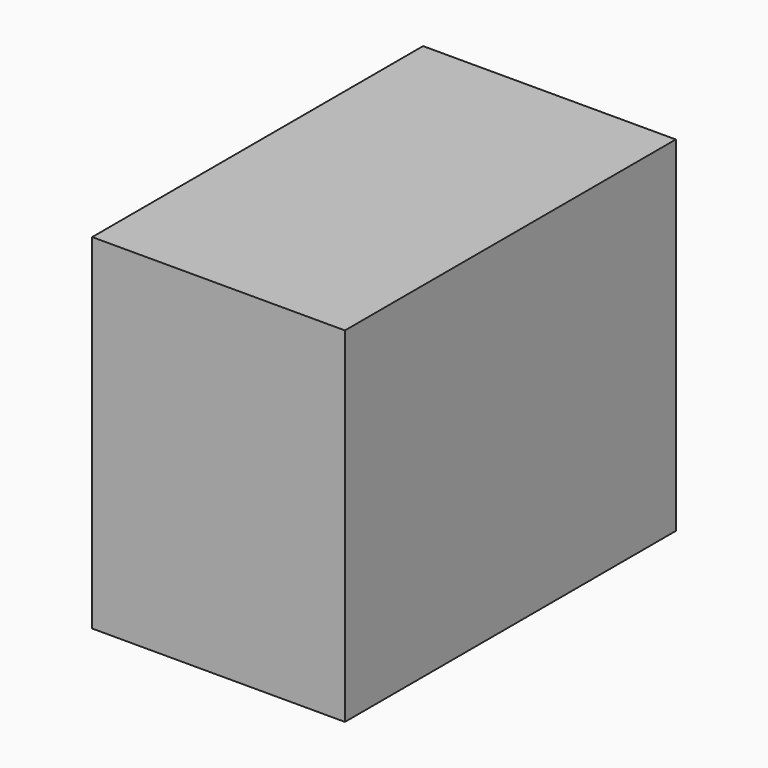
from build123d import *

# Parameters (mm, degrees)
F0_W     = 279.4
F0_H     = 381
F1_DEPTH = 228.6
F2_T     = -2.54


with BuildPart() as f1:
    # F0 (on Front) → F1 (new body, symmetric)
    with BuildSketch(Plane.XZ):
        Rectangle(F0_W, F0_H)
    extrude(amount=F1_DEPTH, both=True)

    # F2
    f2_openings = [f1.faces().sort_by_distance(p)[0] for p in [
        (-139.7, 0, 0),
    ]]
    offset(amount=F2_T, openings=f2_openings)


solid = f1.part
